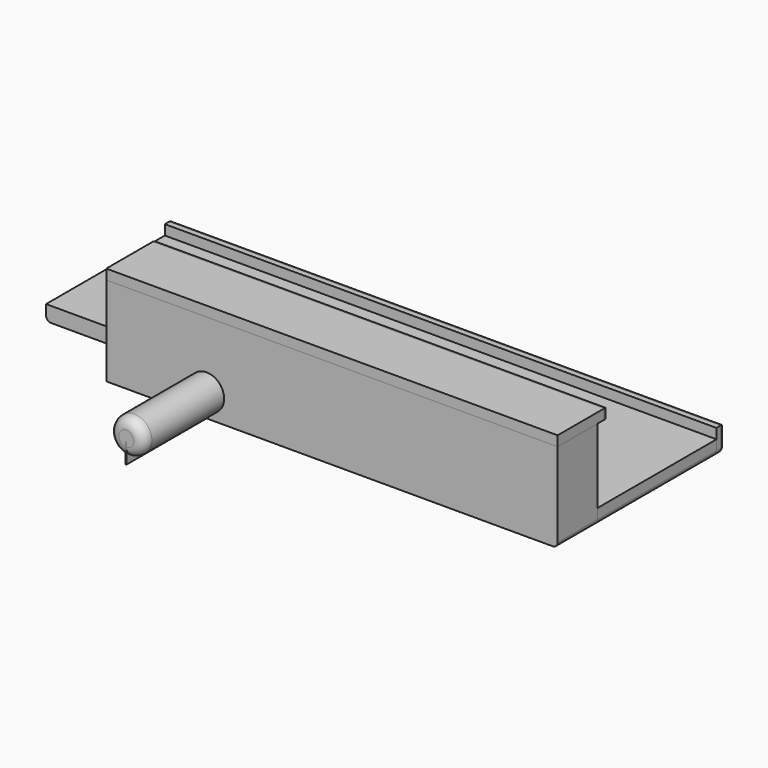
from build123d import *

# Parameters (mm, degrees)
CYLINDER_R     = 1.75
CYLINDER_DEPTH = 10
FILLET_R       = 1
BOX002_W       = 55
BOX002_H       = 1
BOX002_DEPTH   = 2.5
FILLET001_R    = 0.5
BOX001_W       = 55
BOX001_H       = 14.8
BOX001_DEPTH   = 1.5
FILLET003_R    = 0.5
BOX_W          = 45
BOX_H          = 5
BOX_DEPTH      = 8.9
FILLET004_R    = 0.5
BOX003_W       = 45
BOX003_H       = 6.3
BOX003_DEPTH   = 1
FILLET005_R    = 0.5
BOX004_W       = 0.1
BOX004_H       = 10
BOX004_DEPTH   = 2


with BuildPart() as fillet_body:
    # Cylinder → Cylinder (new body)
    with BuildSketch(Plane(origin=(20, 0, 2.3), x_dir=(1, 0, 0), z_dir=(0, -1, 0))):
        Circle(CYLINDER_R)
    extrude(amount=CYLINDER_DEPTH)

    # Fillet
    fillet_edges = [fillet_body.edges().sort_by_distance(p)[0] for p in [
        (18.25, -10, 2.3),
    ]]
    fillet(fillet_edges, radius=FILLET_R)


with BuildPart() as fillet001:
    # Box002 → Box002 (new body)
    with BuildSketch(Plane(origin=(0, 19.8, 0), x_dir=(1, 0, 0), z_dir=(0, 0, 1))):
        with Locations((27.5, 0.5)):
            Rectangle(BOX002_W, BOX002_H)
    extrude(amount=BOX002_DEPTH)

    # Fillet001
    fillet001_edges = [fillet001.edges().sort_by_distance(p)[0] for p in [
        (0, 20.8, 1.25),
        (0, 20.3, 0),
        (55, 20.8, 1.25),
        (55, 20.3, 0),
        (27.5, 20.8, 0),
        (27.5, 20.8, 2.5),
    ]]
    fillet(fillet001_edges, radius=FILLET001_R)


with BuildPart() as fillet003:
    # Box001 → Box001 (new body)
    with BuildSketch(Plane(origin=(0, 5, 0), x_dir=(1, 0, 0), z_dir=(0, 0, 1))):
        with Locations((27.5, 7.4)):
            Rectangle(BOX001_W, BOX001_H)
    extrude(amount=BOX001_DEPTH)

    # Fillet003
    fillet003_edges = [fillet003.edges().sort_by_distance(p)[0] for p in [
        (0, 12.4, 0),
        (55, 12.4, 0),
    ]]
    fillet(fillet003_edges, radius=FILLET003_R)


with BuildPart() as fillet004:
    # Box → Box (new body)
    with BuildSketch(Plane(origin=(10, 0, 0), x_dir=(1, 0, 0), z_dir=(0, 0, 1))):
        with Locations((22.5, 2.5)):
            Rectangle(BOX_W, BOX_H)
    extrude(amount=BOX_DEPTH)

    # Fillet004
    fillet004_edges = [fillet004.edges().sort_by_distance(p)[0] for p in [
        (55, 2.5, 0),
    ]]
    fillet(fillet004_edges, radius=FILLET004_R)


with BuildPart() as fillet005:
    # Box003 → Box003 (new body)
    with BuildSketch(Plane(origin=(10, 0, 8.9), x_dir=(1, 0, 0), z_dir=(0, 0, 1))):
        with Locations((22.5, 3.15)):
            Rectangle(BOX003_W, BOX003_H)
    extrude(amount=BOX003_DEPTH)

    # Fillet005
    fillet005_edges = [fillet005.edges().sort_by_distance(p)[0] for p in [
        (10, 6.3, 9.4),
        (55, 6.3, 9.4),
        (32.5, 6.3, 9.9),
    ]]
    fillet(fillet005_edges, radius=FILLET005_R)


with BuildPart() as cube004:
    # Box004 → Box004 (new body)
    with BuildSketch(Plane(origin=(19.9, -10, 0), x_dir=(1, 0, 0), z_dir=(0, 0, 1))):
        with Locations((0.05, 5)):
            Rectangle(BOX004_W, BOX004_H)
    extrude(amount=BOX004_DEPTH)


solid = Compound([fillet_body.part, fillet001.part, fillet003.part, fillet004.part, fillet005.part, cube004.part])
